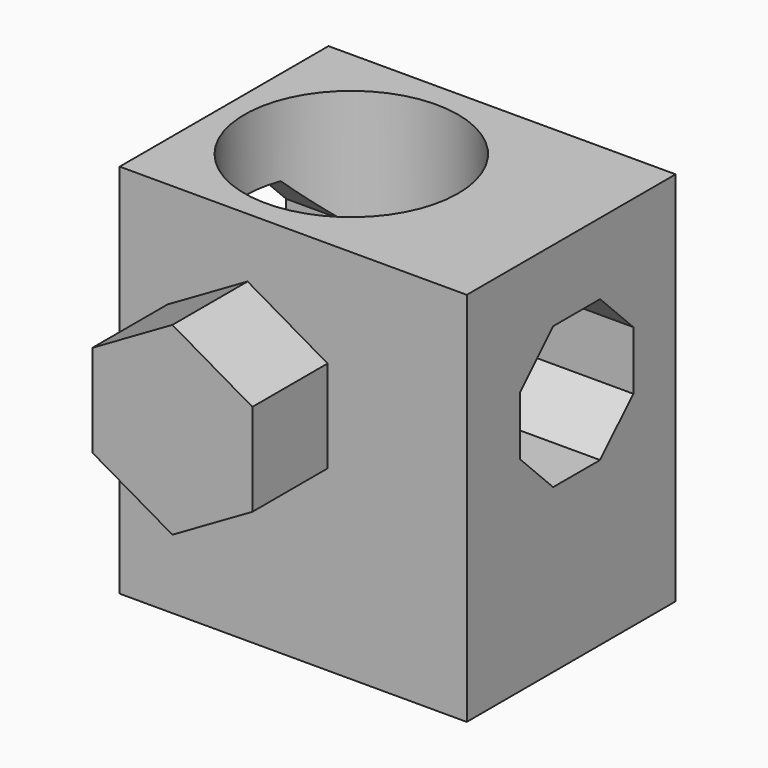
from build123d import *

# Parameters (mm, degrees)
F0_W          = 67.3185419291
F0_H          = 69.4296189758
F1_DEPTH      = 100
F2_R          = 28.4134065768
F3_DEPTH      = 100.001
F5_DEPTH      = 25
F5_DEPTH_BACK = 25
F6_DEPTH      = 25
F8_DEPTH      = 92.3195419291


with BuildPart() as f1:
    # F0 (on Top) → F1 (new body)
    with BuildSketch(Plane.XY):
        with Locations((-0.362903811, -4.0251101746)):
            Rectangle(F0_W, F0_H)
    extrude(amount=F1_DEPTH)

    # F2 (on face) → F3 (cut, through all)
    with BuildSketch(Plane.XY.offset(100)):
        with Locations((0, -4.2641130276)):
            Circle(F2_R)
    extrude(amount=-F3_DEPTH, mode=Mode.SUBTRACT)

    # F4 (on face) → F5 (join, two sides)
    with BuildSketch(Plane.XZ.offset(38.7399196625)) as f5_sk:
        Polygon((-21.2752018124, 71.8850533229), (-21.2752018124, 47.318566336), (0, 35.0353228426), (21.2752018124, 47.318566336), (21.2752018124, 71.8850533229), (0, 84.1682968164), align=None)
        Polygon((-21.2752018124, 71.8850533229), (-21.2752018124, 47.318566336), (0, 35.0353228426), (21.2752018124, 47.318566336), (21.2752018124, 71.8850533229), (0, 84.1682968164), align=None)
    extrude(amount=F5_DEPTH)
    extrude(f5_sk.sketch, amount=-F5_DEPTH_BACK)

    # F6 (add): a face of the model
    f6_faces = [f1.faces().sort_by_distance(p)[0] for p in [
        (33.2963671535, -4.0251101746, 50),
    ]]
    extrude(f6_faces, amount=F6_DEPTH)

    # F7 (on face) → F8 (cut, through all)
    with BuildSketch(Plane(origin=(-34.0221747756, 0, 0), x_dir=(0, -1, 0), z_dir=(-1, 0, 0))):
        Polygon((21.0635084659, 54.3380566401), (21.0635084659, 69.9462256865), (10.0268662913, 80.9828678612), (-5.5813027551, 80.9828678612), (-16.6179449297, 69.9462256865), (-16.6179449297, 54.3380566401), (-5.5813027551, 43.3014144655), (10.0268662913, 43.3014144655), align=None)
    extrude(amount=-F8_DEPTH, mode=Mode.SUBTRACT)


solid = f1.part
